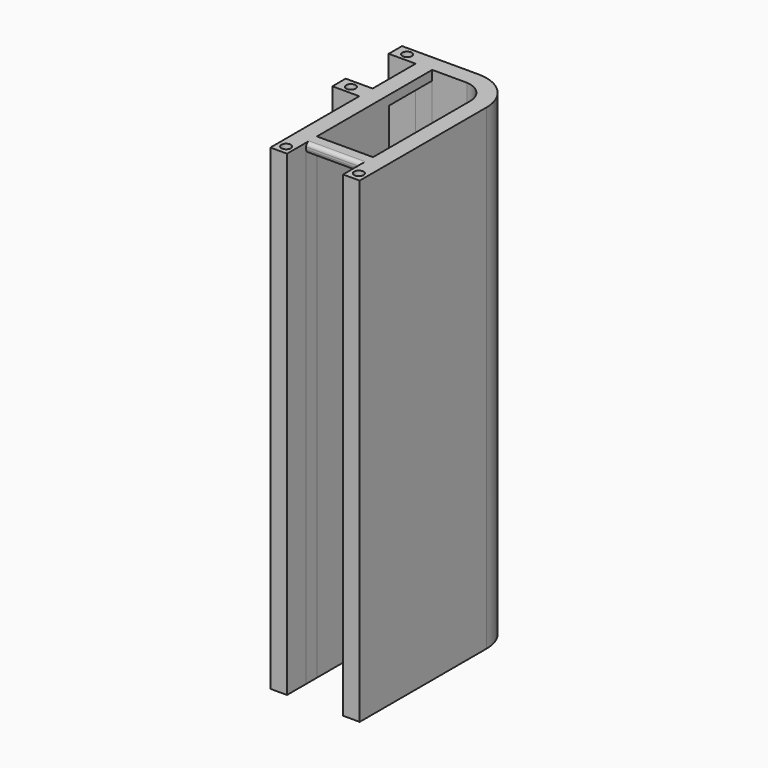
from build123d import *

# Parameters (mm, degrees)
SKETCH_R      = 1.2711848232
PAD_DEPTH     = 127
SKETCH001_W   = 4.436103
SKETCH001_H   = 14.34748
SKETCH001_W_2 = 14.95671
SKETCH001_H_2 = 3.590976
POCKET_DEPTH  = 124.46
FILLET_R      = 0.9906


with BuildPart() as part:
    # Sketch → Pad (new body)
    with BuildSketch(Plane.XY):
        with BuildLine():
            Line((0, 26.6062828995), (-7.1678815, 26.6062828995))
            Line((-7.1678815, 26.6062828995), (-7.1678815, 31.0413108508))
            Line((-7.1678815, 31.0413108508), (13.2402945255, 31.0413108508))
            ThreePointArc((23.8278416124, 20.4537623186), (20.7268209545, 27.9402891709), (13.2402945255, 31.0413108508))
            Line((23.8278416124, 20.4537623186), (23.8278416124, -21.8071686959))
            Line((23.8278416124, -21.8071686959), (19.392813661, -21.8071686959))
            Line((19.392813661, -21.8071686959), (19.392813661, -15.4126492598))
            Line((19.392813661, -15.4126492598), (4.4350279514, -15.4126492598))
            Line((4.4350279514, -15.4126492598), (4.4350279514, -21.7800391169))
            Line((4.4350279514, -21.7800391169), (0, -21.7800391169))
            Line((0, 7.8389965784), (0, -21.7800391169))
            Line((-7.1678815, 7.8389965784), (0, 7.8389965784))
            Line((-7.1678815, 12.2740245298), (-7.1678815, 7.8389965784))
            Line((0, 12.2740245298), (-7.1678815, 12.2740245298))
            Line((0, 26.6062828995), (0, 12.2740245298))
        make_face()
        with Locations((-3.998539, 28.777004)):
            Circle(SKETCH_R, mode=Mode.SUBTRACT)
        with Locations((-3.998539, 10.035677)):
            Circle(SKETCH_R, mode=Mode.SUBTRACT)
        with Locations((2.268514, -19.358597)):
            Circle(SKETCH_R, mode=Mode.SUBTRACT)
        with Locations((21.646236, -19.358597)):
            Circle(SKETCH_R, mode=Mode.SUBTRACT)
        with BuildLine():
            Line((19.392813661, 20.1836425457), (19.392813661, -11.8216736282))
            Line((19.392813661, -11.8216736282), (4.4350279514, -11.8216736282))
            Line((4.4350279514, -11.8216736282), (4.4350279514, 26.5926766868))
            Line((4.4350279514, 26.5926766868), (13.7303997721, 26.5926766868))
            ThreePointArc((19.392813661, 20.1836425457), (17.8554912262, 24.5313130863), (13.7303997721, 26.5926766868))
        make_face(mode=Mode.SUBTRACT)
    extrude(amount=PAD_DEPTH)

    # Sketch001 → Pocket (cut)
    with BuildSketch(Plane.XY):
        with Locations((2.2180515, 19.42961)):
            Rectangle(SKETCH001_W, SKETCH001_H)
        with Locations((11.914458, -13.617161)):
            Rectangle(SKETCH001_W_2, SKETCH001_H_2)
    extrude(amount=POCKET_DEPTH, mode=Mode.SUBTRACT)

    # Fillet
    fillet_edges = [part.edges().sort_by_distance(p)[0] for p in [
        (11.914458, -15.412649, 124.46),
        (11.913921, -15.412649, 127),
    ]]
    fillet(fillet_edges, radius=FILLET_R)


solid = part.part
